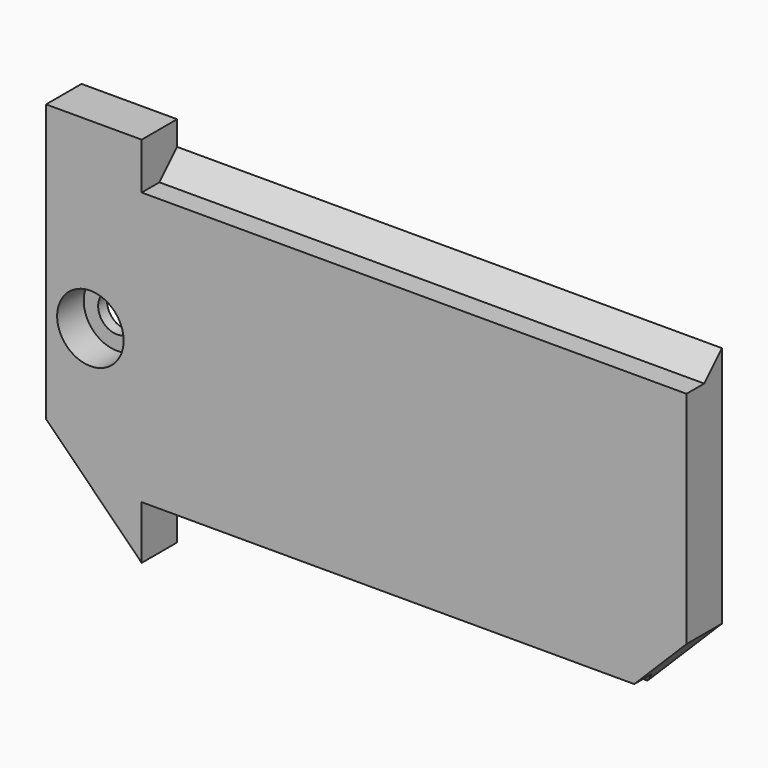
from build123d import *

# Parameters (mm, degrees)
PAD005_DEPTH    = 4
POCKET010_DEPTH = 49.172573
POCKET011_DEPTH = 49.172573


with BuildPart() as part:
    # Sketch016 → Pad005 (new body)
    with BuildSketch(Plane.XZ):
        Polygon((-21.371573, 17.5), (-30, 17.5), (-30, -7.5), (-21.371573, -16.128427), (-21.371573, -13.3), (21.08873, -13.3), (27.8, -6.58873), (27.8, 15.3), (-21.371573, 15.3), align=None)
    extrude(amount=PAD005_DEPTH)

    # Sketch017 (on DatumPlane) → Pocket010 (cut, through all)
    with BuildSketch(Plane(origin=(-21.371573, 0, 0), x_dir=(0, 0, -1), z_dir=(-1, 0, 0))):
        Polygon((13.3, 0), (11.3, 2), (11.3, 4), (13.3, 4), align=None)
    extrude(amount=-POCKET010_DEPTH, mode=Mode.SUBTRACT)

    # Sketch018 (on DatumPlane) → Pocket011 (cut, through all)
    with BuildSketch(Plane(origin=(-21.371573, 0, 0), x_dir=(0, 0, -1), z_dir=(-1, 0, 0))):
        Polygon((-15.3, 4), (-15.3, 0), (-13.3, 2), (-13.3, 4), align=None)
    extrude(amount=-POCKET011_DEPTH, mode=Mode.SUBTRACT)

    # Sketch020 (on DatumPlane) → Groove (revolve, cut)
    with BuildSketch(Plane(origin=(-26, -41, 1), x_dir=(1, 0, 0), z_dir=(0, 0, -1))):
        Polygon((0, -41), (0, -37), (3, -37), (3, -40), (1.7, -40), (1.7, -41), align=None)
    revolve(axis=Axis((-26, -41, 1), (0, -1, 0)), mode=Mode.SUBTRACT)


solid = part.part
